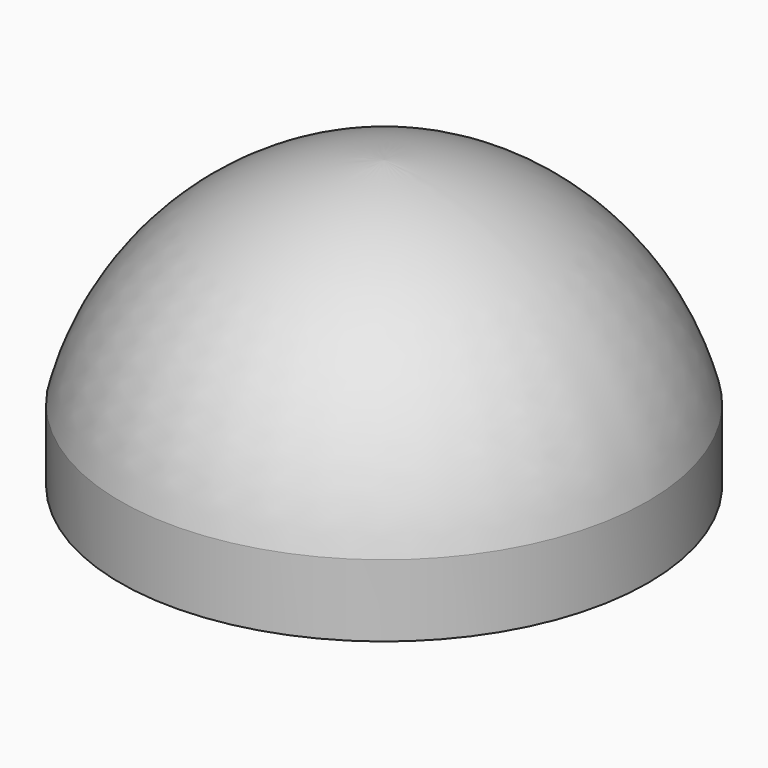
from build123d import *

# Parameters (mm, degrees)
F0_R     = 5.5
F0_R_2   = 4.5
F1_DEPTH = 1.5


with BuildPart() as f1:
    # F0 (on Top) → F1 (new body)
    with BuildSketch(Plane.XY):
        Circle(F0_R)
        Circle(F0_R_2, mode=Mode.SUBTRACT)
    extrude(amount=F1_DEPTH)

    # F2 (on Front) → F3 (revolve)
    with BuildSketch(Plane.XZ):
        with BuildLine():
            ThreePointArc((0, 5), (2.797685, 3.954166), (4.5, 1.5))
            Line((4.5, 1.5), (5.5, 1.5))
            ThreePointArc((5.5, 1.5), (3.484624, 4.636841), (0, 5.963078))
            Line((0, 5.963078), (0, 5))
        make_face()
    revolve(axis=Axis((0, 0, 2.5), (0, 0, 1)))


solid = f1.part
